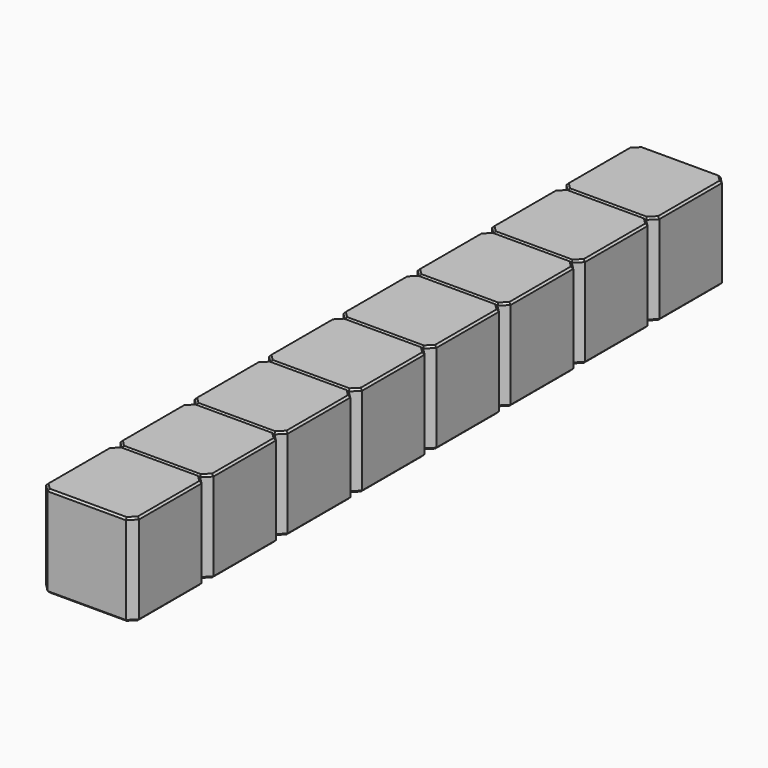
from build123d import *

# Parameters (mm, degrees)
SKETCH208_W     = 2.54
SKETCH208_H     = 2.54
PAD063_DEPTH    = 2.5
CHAMFER014_SIZE = 0.2
CHAMFER013_SIZE = 0.05
ARRAY_Y_COUNT   = 8
ARRAY_Y_PITCH   = 2.54


with BuildPart() as array:
    # Sketch208 → Pad063 (new body)
    with BuildSketch(Plane.XY):
        Rectangle(SKETCH208_W, SKETCH208_H)
    extrude(amount=PAD063_DEPTH)

    # Chamfer014
    chamfer014_edges = [array.edges().sort_by_distance(p)[0] for p in [
        (1.27, -1.27, 1.25),
        (-1.27, -1.27, 1.25),
        (1.27, 1.27, 1.25),
        (-1.27, 1.27, 1.25),
    ]]
    chamfer(chamfer014_edges, length=CHAMFER014_SIZE)

    # Chamfer013
    chamfer013_edges = [array.edges().sort_by_distance(p)[0] for p in [
        (0, -1.27, 2.5),
        (-1.17, -1.17, 2.5),
        (1.17, -1.17, 2.5),
        (-1.27, 0, 2.5),
        (1.27, 0, 2.5),
        (-1.17, 1.17, 2.5),
        (1.17, 1.17, 2.5),
        (0, 1.27, 2.5),
        (0, -1.27, 0),
        (-1.17, -1.17, 0),
        (1.17, -1.17, 0),
        (-1.27, 0, 0),
        (1.27, 0, 0),
        (-1.17, 1.17, 0),
        (1.17, 1.17, 0),
        (0, 1.27, 0),
    ]]
    chamfer(chamfer013_edges, length=CHAMFER013_SIZE)


with BuildPart() as array_1:
    # Body035 placement: moved
    add(array.part.moved(Location((1.5, 0, 0))))


with BuildPart() as array_copy1:
    # Array Y: instance of Array
    add(array_1.part.moved(Location(Vector(0, 1, 0) * (1 * ARRAY_Y_PITCH))))


with BuildPart() as array_copy2:
    # Array Y: instance of Array
    add(array_1.part.moved(Location(Vector(0, 1, 0) * (2 * ARRAY_Y_PITCH))))


with BuildPart() as array_copy3:
    # Array Y: instance of Array
    add(array_1.part.moved(Location(Vector(0, 1, 0) * (3 * ARRAY_Y_PITCH))))


with BuildPart() as array_copy4:
    # Array Y: instance of Array
    add(array_1.part.moved(Location(Vector(0, 1, 0) * (4 * ARRAY_Y_PITCH))))


with BuildPart() as array_copy5:
    # Array Y: instance of Array
    add(array_1.part.moved(Location(Vector(0, 1, 0) * (5 * ARRAY_Y_PITCH))))


with BuildPart() as array_copy6:
    # Array Y: instance of Array
    add(array_1.part.moved(Location(Vector(0, 1, 0) * (6 * ARRAY_Y_PITCH))))


with BuildPart() as array_copy7:
    # Array Y: instance of Array
    add(array_1.part.moved(Location(Vector(0, 1, 0) * (7 * ARRAY_Y_PITCH))))


solid = Compound([array_1.part, array_copy1.part, array_copy2.part, array_copy3.part, array_copy4.part, array_copy5.part, array_copy6.part, array_copy7.part])
